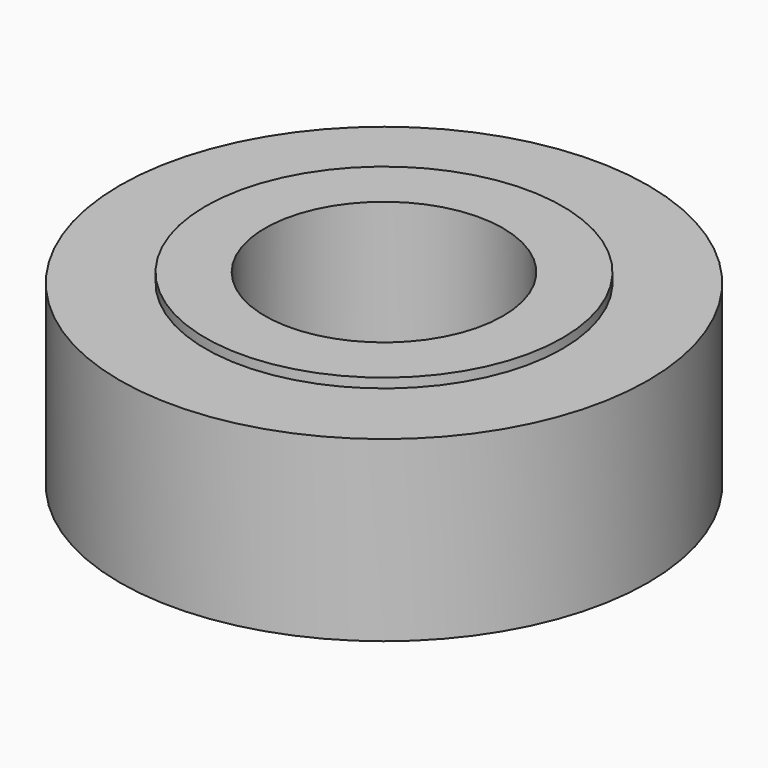
from build123d import *

# Parameters (mm, degrees)
F0_R     = 7.0485
F1_DEPTH = 4.7498
F2_R     = 4.7625
F3_DEPTH = 0.254
F4_R     = 4.7625
F5_DEPTH = 0.254
F6_R     = 3.175
F7_DEPTH = 5.2588


with BuildPart() as f1:
    # F0 (on Top) → F1 (new body)
    with BuildSketch(Plane.XY):
        Circle(F0_R)
    extrude(amount=F1_DEPTH)

    # F2 (on face) → F3 (join)
    with BuildSketch(Plane(origin=(0, 0, 0), x_dir=(1, 0, 0), z_dir=(0, 0, -1))):
        Circle(F2_R)
    extrude(amount=F3_DEPTH)

    # F4 (on face) → F5 (join)
    with BuildSketch(Plane.XY.offset(4.7498)):
        Circle(F4_R)
    extrude(amount=F5_DEPTH)

    # F6 (on face) → F7 (cut, through all)
    with BuildSketch(Plane(origin=(0, 0, -0.254), x_dir=(1, 0, 0), z_dir=(0, 0, -1))):
        Circle(F6_R)
    extrude(amount=-F7_DEPTH, mode=Mode.SUBTRACT)


solid = f1.part
